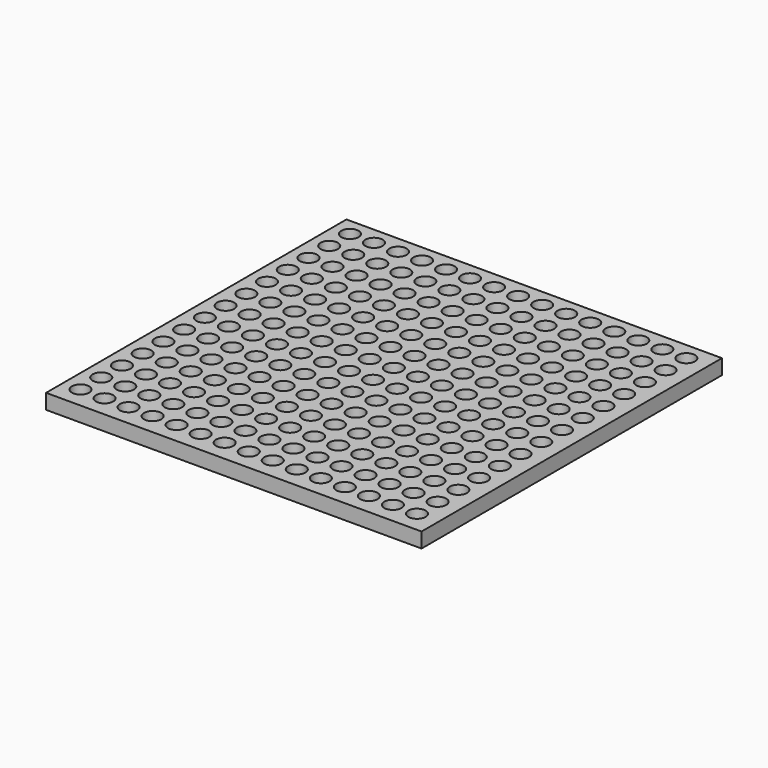
from build123d import *

# Parameters (mm, degrees)
F0_W     = 100
F0_H     = 100
F0_R     = 2.3
F1_DEPTH = 4


with BuildPart() as f1:
    # F0 (on Top) → F1 (new body)
    with BuildSketch(Plane.XY):
        Rectangle(F0_W, F0_H)
        with Locations((-45.349639, -44.350365)):
            Circle(F0_R, mode=Mode.SUBTRACT)
        with Locations((-38.949639, -44.350365)):
            Circle(F0_R, mode=Mode.SUBTRACT)
        with Locations((-32.549639, -44.350365)):
            Circle(F0_R, mode=Mode.SUBTRACT)
        with Locations((-26.149639, -44.350365)):
            Circle(F0_R, mode=Mode.SUBTRACT)
        with Locations((-45.349639, -37.450365)):
            Circle(F0_R, mode=Mode.SUBTRACT)
        with Locations((-38.949639, -37.450365)):
            Circle(F0_R, mode=Mode.SUBTRACT)
        with Locations((-45.349639, -30.550365)):
            Circle(F0_R, mode=Mode.SUBTRACT)
        with Locations((-38.949639, -30.550365)):
            Circle(F0_R, mode=Mode.SUBTRACT)
        with Locations((-32.549639, -37.450365)):
            Circle(F0_R, mode=Mode.SUBTRACT)
        with Locations((-26.149639, -37.450365)):
            Circle(F0_R, mode=Mode.SUBTRACT)
        with Locations((-32.549639, -30.550365)):
            Circle(F0_R, mode=Mode.SUBTRACT)
        with Locations((-26.149639, -30.550365)):
            Circle(F0_R, mode=Mode.SUBTRACT)
        with Locations((-19.749639, -44.350365)):
            Circle(F0_R, mode=Mode.SUBTRACT)
        with Locations((-13.349639, -44.350365)):
            Circle(F0_R, mode=Mode.SUBTRACT)
        with Locations((-6.949639, -44.350365)):
            Circle(F0_R, mode=Mode.SUBTRACT)
        with Locations((-0.549639, -44.350365)):
            Circle(F0_R, mode=Mode.SUBTRACT)
        with Locations((-19.749639, -37.450365)):
            Circle(F0_R, mode=Mode.SUBTRACT)
        with Locations((-13.349639, -37.450365)):
            Circle(F0_R, mode=Mode.SUBTRACT)
        with Locations((-19.749639, -30.550365)):
            Circle(F0_R, mode=Mode.SUBTRACT)
        with Locations((-13.349639, -30.550365)):
            Circle(F0_R, mode=Mode.SUBTRACT)
        with Locations((-6.949639, -37.450365)):
            Circle(F0_R, mode=Mode.SUBTRACT)
        with Locations((-0.549639, -37.450365)):
            Circle(F0_R, mode=Mode.SUBTRACT)
        with Locations((-6.949639, -30.550365)):
            Circle(F0_R, mode=Mode.SUBTRACT)
        with Locations((-0.549639, -30.550365)):
            Circle(F0_R, mode=Mode.SUBTRACT)
        with Locations((-45.349639, -23.650365)):
            Circle(F0_R, mode=Mode.SUBTRACT)
        with Locations((-38.949639, -23.650365)):
            Circle(F0_R, mode=Mode.SUBTRACT)
        with Locations((-45.349639, -16.750365)):
            Circle(F0_R, mode=Mode.SUBTRACT)
        with Locations((-38.949639, -16.750365)):
            Circle(F0_R, mode=Mode.SUBTRACT)
        with Locations((-32.549639, -23.650365)):
            Circle(F0_R, mode=Mode.SUBTRACT)
        with Locations((-26.149639, -23.650365)):
            Circle(F0_R, mode=Mode.SUBTRACT)
        with Locations((-32.549639, -16.750365)):
            Circle(F0_R, mode=Mode.SUBTRACT)
        with Locations((-26.149639, -16.750365)):
            Circle(F0_R, mode=Mode.SUBTRACT)
        with Locations((-45.349639, -9.850365)):
            Circle(F0_R, mode=Mode.SUBTRACT)
        with Locations((-38.949639, -9.850365)):
            Circle(F0_R, mode=Mode.SUBTRACT)
        with Locations((-45.349639, -2.950365)):
            Circle(F0_R, mode=Mode.SUBTRACT)
        with Locations((-38.949639, -2.950365)):
            Circle(F0_R, mode=Mode.SUBTRACT)
        with Locations((-32.549639, -9.850365)):
            Circle(F0_R, mode=Mode.SUBTRACT)
        with Locations((-26.149639, -9.850365)):
            Circle(F0_R, mode=Mode.SUBTRACT)
        with Locations((-32.549639, -2.950365)):
            Circle(F0_R, mode=Mode.SUBTRACT)
        with Locations((-26.149639, -2.950365)):
            Circle(F0_R, mode=Mode.SUBTRACT)
        with Locations((-19.749639, -23.650365)):
            Circle(F0_R, mode=Mode.SUBTRACT)
        with Locations((-13.349639, -23.650365)):
            Circle(F0_R, mode=Mode.SUBTRACT)
        with Locations((-19.749639, -16.750365)):
            Circle(F0_R, mode=Mode.SUBTRACT)
        with Locations((-13.349639, -16.750365)):
            Circle(F0_R, mode=Mode.SUBTRACT)
        with Locations((-6.949639, -23.650365)):
            Circle(F0_R, mode=Mode.SUBTRACT)
        with Locations((-0.549639, -23.650365)):
            Circle(F0_R, mode=Mode.SUBTRACT)
        with Locations((-6.949639, -16.750365)):
            Circle(F0_R, mode=Mode.SUBTRACT)
        with Locations((-0.549639, -16.750365)):
            Circle(F0_R, mode=Mode.SUBTRACT)
        with Locations((-19.749639, -9.850365)):
            Circle(F0_R, mode=Mode.SUBTRACT)
        with Locations((-13.349639, -9.850365)):
            Circle(F0_R, mode=Mode.SUBTRACT)
        with Locations((-19.749639, -2.950365)):
            Circle(F0_R, mode=Mode.SUBTRACT)
        with Locations((-13.349639, -2.950365)):
            Circle(F0_R, mode=Mode.SUBTRACT)
        with Locations((-6.949639, -9.850365)):
            Circle(F0_R, mode=Mode.SUBTRACT)
        with Locations((-0.549639, -9.850365)):
            Circle(F0_R, mode=Mode.SUBTRACT)
        with Locations((-6.949639, -2.950365)):
            Circle(F0_R, mode=Mode.SUBTRACT)
        with Locations((-0.549639, -2.950365)):
            Circle(F0_R, mode=Mode.SUBTRACT)
        with Locations((5.850361, -44.350365)):
            Circle(F0_R, mode=Mode.SUBTRACT)
        with Locations((12.250361, -44.350365)):
            Circle(F0_R, mode=Mode.SUBTRACT)
        with Locations((18.650361, -44.350365)):
            Circle(F0_R, mode=Mode.SUBTRACT)
        with Locations((5.850361, -37.450365)):
            Circle(F0_R, mode=Mode.SUBTRACT)
        with Locations((12.250361, -37.450365)):
            Circle(F0_R, mode=Mode.SUBTRACT)
        with Locations((5.850361, -30.550365)):
            Circle(F0_R, mode=Mode.SUBTRACT)
        with Locations((12.250361, -30.550365)):
            Circle(F0_R, mode=Mode.SUBTRACT)
        with Locations((18.650361, -37.450365)):
            Circle(F0_R, mode=Mode.SUBTRACT)
        with Locations((18.650361, -30.550365)):
            Circle(F0_R, mode=Mode.SUBTRACT)
        with Locations((25.050361, -44.350365)):
            Circle(F0_R, mode=Mode.SUBTRACT)
        with Locations((31.450361, -44.350365)):
            Circle(F0_R, mode=Mode.SUBTRACT)
        with Locations((37.850361, -44.350365)):
            Circle(F0_R, mode=Mode.SUBTRACT)
        with Locations((44.250361, -44.350365)):
            Circle(F0_R, mode=Mode.SUBTRACT)
        with Locations((25.050361, -37.450365)):
            Circle(F0_R, mode=Mode.SUBTRACT)
        with Locations((31.450361, -37.450365)):
            Circle(F0_R, mode=Mode.SUBTRACT)
        with Locations((25.050361, -30.550365)):
            Circle(F0_R, mode=Mode.SUBTRACT)
        with Locations((31.450361, -30.550365)):
            Circle(F0_R, mode=Mode.SUBTRACT)
        with Locations((37.850361, -37.450365)):
            Circle(F0_R, mode=Mode.SUBTRACT)
        with Locations((44.250361, -37.450365)):
            Circle(F0_R, mode=Mode.SUBTRACT)
        with Locations((37.850361, -30.550365)):
            Circle(F0_R, mode=Mode.SUBTRACT)
        with Locations((44.250361, -30.550365)):
            Circle(F0_R, mode=Mode.SUBTRACT)
        with Locations((5.850361, -23.650365)):
            Circle(F0_R, mode=Mode.SUBTRACT)
        with Locations((12.250361, -23.650365)):
            Circle(F0_R, mode=Mode.SUBTRACT)
        with Locations((5.850361, -16.750365)):
            Circle(F0_R, mode=Mode.SUBTRACT)
        with Locations((12.250361, -16.750365)):
            Circle(F0_R, mode=Mode.SUBTRACT)
        with Locations((18.650361, -23.650365)):
            Circle(F0_R, mode=Mode.SUBTRACT)
        with Locations((18.650361, -16.750365)):
            Circle(F0_R, mode=Mode.SUBTRACT)
        with Locations((5.850361, -9.850365)):
            Circle(F0_R, mode=Mode.SUBTRACT)
        with Locations((12.250361, -9.850365)):
            Circle(F0_R, mode=Mode.SUBTRACT)
        with Locations((5.850361, -2.950365)):
            Circle(F0_R, mode=Mode.SUBTRACT)
        with Locations((12.250361, -2.950365)):
            Circle(F0_R, mode=Mode.SUBTRACT)
        with Locations((18.650361, -9.850365)):
            Circle(F0_R, mode=Mode.SUBTRACT)
        with Locations((18.650361, -2.950365)):
            Circle(F0_R, mode=Mode.SUBTRACT)
        with Locations((25.050361, -23.650365)):
            Circle(F0_R, mode=Mode.SUBTRACT)
        with Locations((31.450361, -23.650365)):
            Circle(F0_R, mode=Mode.SUBTRACT)
        with Locations((25.050361, -16.750365)):
            Circle(F0_R, mode=Mode.SUBTRACT)
        with Locations((31.450361, -16.750365)):
            Circle(F0_R, mode=Mode.SUBTRACT)
        with Locations((37.850361, -23.650365)):
            Circle(F0_R, mode=Mode.SUBTRACT)
        with Locations((44.250361, -23.650365)):
            Circle(F0_R, mode=Mode.SUBTRACT)
        with Locations((37.850361, -16.750365)):
            Circle(F0_R, mode=Mode.SUBTRACT)
        with Locations((44.250361, -16.750365)):
            Circle(F0_R, mode=Mode.SUBTRACT)
        with Locations((25.050361, -9.850365)):
            Circle(F0_R, mode=Mode.SUBTRACT)
        with Locations((31.450361, -9.850365)):
            Circle(F0_R, mode=Mode.SUBTRACT)
        with Locations((25.050361, -2.950365)):
            Circle(F0_R, mode=Mode.SUBTRACT)
        with Locations((31.450361, -2.950365)):
            Circle(F0_R, mode=Mode.SUBTRACT)
        with Locations((37.850361, -9.850365)):
            Circle(F0_R, mode=Mode.SUBTRACT)
        with Locations((44.250361, -9.850365)):
            Circle(F0_R, mode=Mode.SUBTRACT)
        with Locations((37.850361, -2.950365)):
            Circle(F0_R, mode=Mode.SUBTRACT)
        with Locations((44.250361, -2.950365)):
            Circle(F0_R, mode=Mode.SUBTRACT)
        with Locations((-45.349639, 3.949635)):
            Circle(F0_R, mode=Mode.SUBTRACT)
        with Locations((-38.949639, 3.949635)):
            Circle(F0_R, mode=Mode.SUBTRACT)
        with Locations((-45.349639, 10.849635)):
            Circle(F0_R, mode=Mode.SUBTRACT)
        with Locations((-38.949639, 10.849635)):
            Circle(F0_R, mode=Mode.SUBTRACT)
        with Locations((-32.549639, 3.949635)):
            Circle(F0_R, mode=Mode.SUBTRACT)
        with Locations((-26.149639, 3.949635)):
            Circle(F0_R, mode=Mode.SUBTRACT)
        with Locations((-32.549639, 10.849635)):
            Circle(F0_R, mode=Mode.SUBTRACT)
        with Locations((-26.149639, 10.849635)):
            Circle(F0_R, mode=Mode.SUBTRACT)
        with Locations((-45.349639, 17.749635)):
            Circle(F0_R, mode=Mode.SUBTRACT)
        with Locations((-38.949639, 17.749635)):
            Circle(F0_R, mode=Mode.SUBTRACT)
        with Locations((-45.349639, 24.649635)):
            Circle(F0_R, mode=Mode.SUBTRACT)
        with Locations((-38.949639, 24.649635)):
            Circle(F0_R, mode=Mode.SUBTRACT)
        with Locations((-32.549639, 17.749635)):
            Circle(F0_R, mode=Mode.SUBTRACT)
        with Locations((-26.149639, 17.749635)):
            Circle(F0_R, mode=Mode.SUBTRACT)
        with Locations((-32.549639, 24.649635)):
            Circle(F0_R, mode=Mode.SUBTRACT)
        with Locations((-26.149639, 24.649635)):
            Circle(F0_R, mode=Mode.SUBTRACT)
        with Locations((-19.749639, 3.949635)):
            Circle(F0_R, mode=Mode.SUBTRACT)
        with Locations((-13.349639, 3.949635)):
            Circle(F0_R, mode=Mode.SUBTRACT)
        with Locations((-19.749639, 10.849635)):
            Circle(F0_R, mode=Mode.SUBTRACT)
        with Locations((-13.349639, 10.849635)):
            Circle(F0_R, mode=Mode.SUBTRACT)
        with Locations((-6.949639, 3.949635)):
            Circle(F0_R, mode=Mode.SUBTRACT)
        with Locations((-0.549639, 3.949635)):
            Circle(F0_R, mode=Mode.SUBTRACT)
        with Locations((-6.949639, 10.849635)):
            Circle(F0_R, mode=Mode.SUBTRACT)
        with Locations((-0.549639, 10.849635)):
            Circle(F0_R, mode=Mode.SUBTRACT)
        with Locations((-19.749639, 17.749635)):
            Circle(F0_R, mode=Mode.SUBTRACT)
        with Locations((-13.349639, 17.749635)):
            Circle(F0_R, mode=Mode.SUBTRACT)
        with Locations((-19.749639, 24.649635)):
            Circle(F0_R, mode=Mode.SUBTRACT)
        with Locations((-13.349639, 24.649635)):
            Circle(F0_R, mode=Mode.SUBTRACT)
        with Locations((-6.949639, 17.749635)):
            Circle(F0_R, mode=Mode.SUBTRACT)
        with Locations((-0.549639, 17.749635)):
            Circle(F0_R, mode=Mode.SUBTRACT)
        with Locations((-6.949639, 24.649635)):
            Circle(F0_R, mode=Mode.SUBTRACT)
        with Locations((-0.549639, 24.649635)):
            Circle(F0_R, mode=Mode.SUBTRACT)
        with Locations((-45.349639, 31.549635)):
            Circle(F0_R, mode=Mode.SUBTRACT)
        with Locations((-38.949639, 31.549635)):
            Circle(F0_R, mode=Mode.SUBTRACT)
        with Locations((-32.549639, 31.549635)):
            Circle(F0_R, mode=Mode.SUBTRACT)
        with Locations((-26.149639, 31.549635)):
            Circle(F0_R, mode=Mode.SUBTRACT)
        with Locations((-45.349639, 38.449635)):
            Circle(F0_R, mode=Mode.SUBTRACT)
        with Locations((-38.949639, 38.449635)):
            Circle(F0_R, mode=Mode.SUBTRACT)
        with Locations((-45.349639, 45.349635)):
            Circle(F0_R, mode=Mode.SUBTRACT)
        with Locations((-38.949639, 45.349635)):
            Circle(F0_R, mode=Mode.SUBTRACT)
        with Locations((-32.549639, 38.449635)):
            Circle(F0_R, mode=Mode.SUBTRACT)
        with Locations((-26.149639, 38.449635)):
            Circle(F0_R, mode=Mode.SUBTRACT)
        with Locations((-32.549639, 45.349635)):
            Circle(F0_R, mode=Mode.SUBTRACT)
        with Locations((-26.149639, 45.349635)):
            Circle(F0_R, mode=Mode.SUBTRACT)
        with Locations((-19.749639, 31.549635)):
            Circle(F0_R, mode=Mode.SUBTRACT)
        with Locations((-13.349639, 31.549635)):
            Circle(F0_R, mode=Mode.SUBTRACT)
        with Locations((-6.949639, 31.549635)):
            Circle(F0_R, mode=Mode.SUBTRACT)
        with Locations((-0.549639, 31.549635)):
            Circle(F0_R, mode=Mode.SUBTRACT)
        with Locations((-19.749639, 38.449635)):
            Circle(F0_R, mode=Mode.SUBTRACT)
        with Locations((-13.349639, 38.449635)):
            Circle(F0_R, mode=Mode.SUBTRACT)
        with Locations((-19.749639, 45.349635)):
            Circle(F0_R, mode=Mode.SUBTRACT)
        with Locations((-13.349639, 45.349635)):
            Circle(F0_R, mode=Mode.SUBTRACT)
        with Locations((-6.949639, 38.449635)):
            Circle(F0_R, mode=Mode.SUBTRACT)
        with Locations((-0.549639, 38.449635)):
            Circle(F0_R, mode=Mode.SUBTRACT)
        with Locations((-6.949639, 45.349635)):
            Circle(F0_R, mode=Mode.SUBTRACT)
        with Locations((-0.549639, 45.349635)):
            Circle(F0_R, mode=Mode.SUBTRACT)
        with Locations((5.850361, 3.949635)):
            Circle(F0_R, mode=Mode.SUBTRACT)
        with Locations((12.250361, 3.949635)):
            Circle(F0_R, mode=Mode.SUBTRACT)
        with Locations((5.850361, 10.849635)):
            Circle(F0_R, mode=Mode.SUBTRACT)
        with Locations((12.250361, 10.849635)):
            Circle(F0_R, mode=Mode.SUBTRACT)
        with Locations((18.650361, 3.949635)):
            Circle(F0_R, mode=Mode.SUBTRACT)
        with Locations((18.650361, 10.849635)):
            Circle(F0_R, mode=Mode.SUBTRACT)
        with Locations((5.850361, 17.749635)):
            Circle(F0_R, mode=Mode.SUBTRACT)
        with Locations((12.250361, 17.749635)):
            Circle(F0_R, mode=Mode.SUBTRACT)
        with Locations((5.850361, 24.649635)):
            Circle(F0_R, mode=Mode.SUBTRACT)
        with Locations((12.250361, 24.649635)):
            Circle(F0_R, mode=Mode.SUBTRACT)
        with Locations((18.650361, 17.749635)):
            Circle(F0_R, mode=Mode.SUBTRACT)
        with Locations((18.650361, 24.649635)):
            Circle(F0_R, mode=Mode.SUBTRACT)
        with Locations((25.050361, 3.949635)):
            Circle(F0_R, mode=Mode.SUBTRACT)
        with Locations((31.450361, 3.949635)):
            Circle(F0_R, mode=Mode.SUBTRACT)
        with Locations((25.050361, 10.849635)):
            Circle(F0_R, mode=Mode.SUBTRACT)
        with Locations((31.450361, 10.849635)):
            Circle(F0_R, mode=Mode.SUBTRACT)
        with Locations((37.850361, 3.949635)):
            Circle(F0_R, mode=Mode.SUBTRACT)
        with Locations((44.250361, 3.949635)):
            Circle(F0_R, mode=Mode.SUBTRACT)
        with Locations((37.850361, 10.849635)):
            Circle(F0_R, mode=Mode.SUBTRACT)
        with Locations((44.250361, 10.849635)):
            Circle(F0_R, mode=Mode.SUBTRACT)
        with Locations((25.050361, 17.749635)):
            Circle(F0_R, mode=Mode.SUBTRACT)
        with Locations((31.450361, 17.749635)):
            Circle(F0_R, mode=Mode.SUBTRACT)
        with Locations((25.050361, 24.649635)):
            Circle(F0_R, mode=Mode.SUBTRACT)
        with Locations((31.450361, 24.649635)):
            Circle(F0_R, mode=Mode.SUBTRACT)
        with Locations((37.850361, 17.749635)):
            Circle(F0_R, mode=Mode.SUBTRACT)
        with Locations((44.250361, 17.749635)):
            Circle(F0_R, mode=Mode.SUBTRACT)
        with Locations((37.850361, 24.649635)):
            Circle(F0_R, mode=Mode.SUBTRACT)
        with Locations((44.250361, 24.649635)):
            Circle(F0_R, mode=Mode.SUBTRACT)
        with Locations((5.850361, 31.549635)):
            Circle(F0_R, mode=Mode.SUBTRACT)
        with Locations((12.250361, 31.549635)):
            Circle(F0_R, mode=Mode.SUBTRACT)
        with Locations((18.650361, 31.549635)):
            Circle(F0_R, mode=Mode.SUBTRACT)
        with Locations((5.850361, 38.449635)):
            Circle(F0_R, mode=Mode.SUBTRACT)
        with Locations((12.250361, 38.449635)):
            Circle(F0_R, mode=Mode.SUBTRACT)
        with Locations((5.850361, 45.349635)):
            Circle(F0_R, mode=Mode.SUBTRACT)
        with Locations((12.250361, 45.349635)):
            Circle(F0_R, mode=Mode.SUBTRACT)
        with Locations((18.650361, 38.449635)):
            Circle(F0_R, mode=Mode.SUBTRACT)
        with Locations((18.650361, 45.349635)):
            Circle(F0_R, mode=Mode.SUBTRACT)
        with Locations((25.050361, 31.549635)):
            Circle(F0_R, mode=Mode.SUBTRACT)
        with Locations((31.450361, 31.549635)):
            Circle(F0_R, mode=Mode.SUBTRACT)
        with Locations((37.850361, 31.549635)):
            Circle(F0_R, mode=Mode.SUBTRACT)
        with Locations((44.250361, 31.549635)):
            Circle(F0_R, mode=Mode.SUBTRACT)
        with Locations((25.050361, 38.449635)):
            Circle(F0_R, mode=Mode.SUBTRACT)
        with Locations((31.450361, 38.449635)):
            Circle(F0_R, mode=Mode.SUBTRACT)
        with Locations((25.050361, 45.349635)):
            Circle(F0_R, mode=Mode.SUBTRACT)
        with Locations((31.450361, 45.349635)):
            Circle(F0_R, mode=Mode.SUBTRACT)
        with Locations((37.850361, 38.449635)):
            Circle(F0_R, mode=Mode.SUBTRACT)
        with Locations((44.250361, 38.449635)):
            Circle(F0_R, mode=Mode.SUBTRACT)
        with Locations((37.850361, 45.349635)):
            Circle(F0_R, mode=Mode.SUBTRACT)
        with Locations((44.250361, 45.349635)):
            Circle(F0_R, mode=Mode.SUBTRACT)
    extrude(amount=F1_DEPTH)


solid = f1.part
